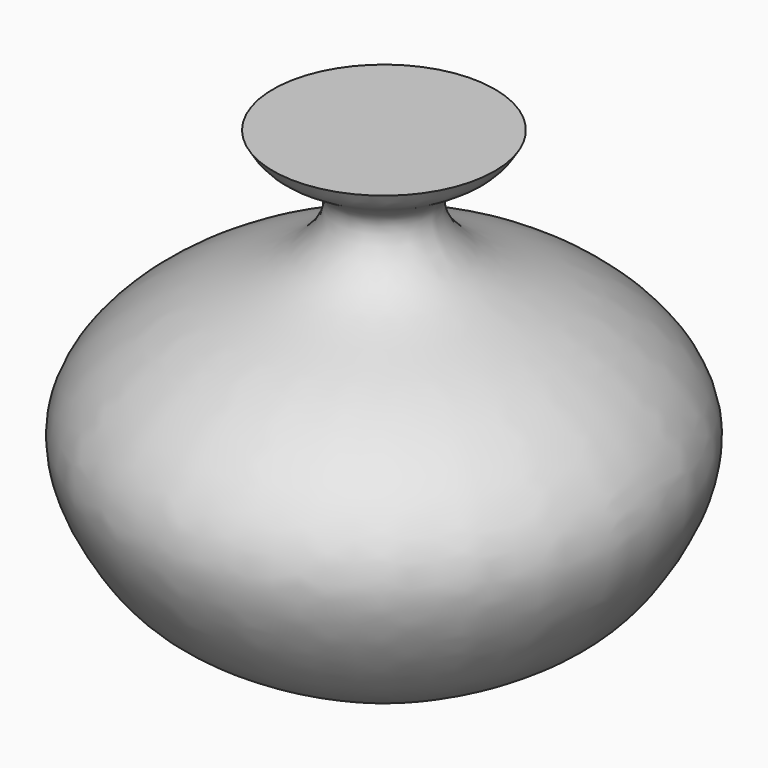
from build123d import *


with BuildPart() as f1:
    # F0 (on Front) → F1 (revolve)
    with BuildSketch(Plane.XZ):
        with BuildLine():
            Line((-6.1758868396, 47.6557277143), (-31.4324982464, 47.6557277143))
            Line((-31.4324982464, 47.6557277143), (-31.4324982464, -54.1081391275))
            Line((-31.4324982464, -54.1081391275), (-6.1758868396, -54.1081391275))
            add(Edge.make_bspline(
                [(-6.1758868396, -54.1081391275), (11.1534679309, -45.4434640706), (20.1899076154, -37.966767407), (35.1426722289, -7.8920481554), (7.8545729664, 15.5117415632), (-15.3418200125, 20.2828268185), (-24.3087322246, 36.6902803703), (-9.2491369569, 42.2847849634), (-7.0566083893, 46.1115828313), (-6.1758868396, 47.6557277143)],
                knots=[0, 0, 0, 0, 0.1882698242, 0.3503590145, 0.530267567, 0.6903277926, 0.8054449812, 0.9207795159, 1, 1, 1, 1], degree=3))
        make_face()
    revolve(axis=Axis((-31.4324982464, 0, -3.2262057066), (0, 0, -1)))


solid = f1.part
